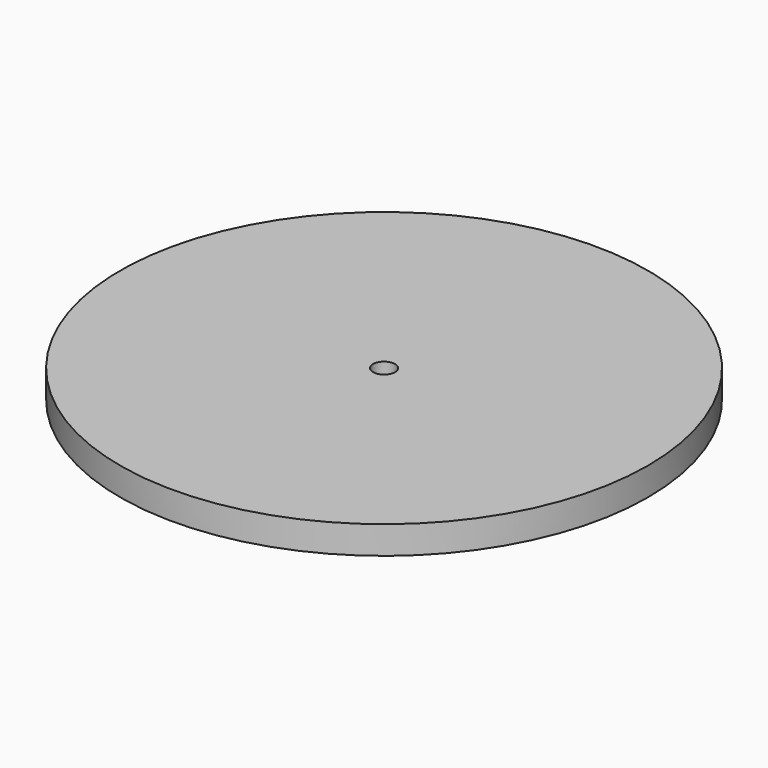
from build123d import *

# Parameters (mm, degrees)
SKETCH_R   = 60
SKETCH_R_2 = 2.5
PAD_DEPTH  = 6.35


with BuildPart() as part:
    # Sketch → Pad (new body)
    with BuildSketch(Plane.XY):
        Circle(SKETCH_R)
        Circle(SKETCH_R_2, mode=Mode.SUBTRACT)
    extrude(amount=PAD_DEPTH)


solid = part.part
